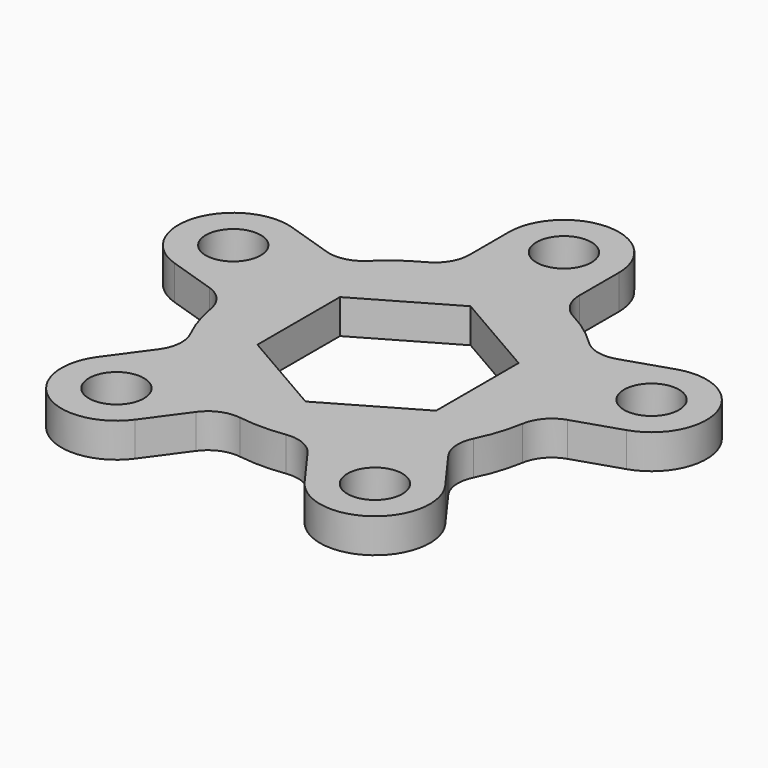
from build123d import *

# Parameters (mm, degrees)
F0_R     = 4
F1_DEPTH = 5


with BuildPart() as f1:
    # F0 (on Top) → F1 (new body)
    with BuildSketch(Plane.XY):
        with BuildLine():
            Line((8, 24.799194), (8, 32))
            ThreePointArc((8, 32), (0, 40), (-8, 32))
            Line((-8, 32), (-8, 24.799194))
            ThreePointArc((-8, 24.799194), (-8.721733, 22.211448), (-10.678571, 20.370766))
            ThreePointArc((-10.678571, 20.370766), (-13.519061, 18.607391), (-16.07389, 16.450838))
            ThreePointArc((-16.07389, 16.450838), (-18.429178, 15.158575), (-21.113299, 15.271824))
            Line((-21.113299, 15.271824), (-27.961673, 17.496996))
            ThreePointArc((-27.961673, 17.496996), (-38.042261, 12.36068), (-32.905944, 2.280092))
            Line((-32.905944, 2.280092), (-26.057571, 0.05492))
            ThreePointArc((-26.057571, 0.05492), (-23.819506, -1.431146), (-22.67361, -3.861012))
            ThreePointArc((-22.67361, -3.861012), (-21.8743, -7.107391), (-20.612782, -10.203589))
            ThreePointArc((-20.612782, -10.203589), (-20.111591, -12.842933), (-21.048736, -15.360687))
            Line((-21.048736, -15.360687), (-25.281264, -21.186262))
            ThreePointArc((-25.281264, -21.186262), (-23.51141, -32.36068), (-12.336992, -30.590826))
            Line((-12.336992, -30.590826), (-8.104464, -24.765251))
            ThreePointArc((-8.104464, -24.765251), (-5.999531, -23.095944), (-3.33449, -22.757003))
            ThreePointArc((-3.33449, -22.757003), (0, -23), (3.33449, -22.757003))
            ThreePointArc((3.33449, -22.757003), (5.999531, -23.095944), (8.104464, -24.765251))
            Line((8.104464, -24.765251), (12.336992, -30.590826))
            ThreePointArc((12.336992, -30.590826), (23.51141, -32.36068), (25.281264, -21.186262))
            Line((25.281264, -21.186262), (21.048736, -15.360687))
            ThreePointArc((21.048736, -15.360687), (20.111591, -12.842933), (20.612782, -10.203589))
            ThreePointArc((20.612782, -10.203589), (21.8743, -7.107391), (22.67361, -3.861012))
            ThreePointArc((22.67361, -3.861012), (23.819506, -1.431146), (26.057571, 0.05492))
            Line((26.057571, 0.05492), (32.905944, 2.280092))
            ThreePointArc((32.905944, 2.280092), (38.042261, 12.36068), (27.961673, 17.496996))
            Line((27.961673, 17.496996), (21.113299, 15.271824))
            ThreePointArc((21.113299, 15.271824), (18.429178, 15.158575), (16.07389, 16.450838))
            ThreePointArc((16.07389, 16.450838), (13.519061, 18.607391), (10.678571, 20.370766))
            ThreePointArc((10.678571, 20.370766), (8.721733, 22.211448), (8, 24.799194))
        make_face()
        with Locations((-18.809128, -25.888544)):
            Circle(F0_R, mode=Mode.SUBTRACT)
        with Locations((18.809128, -25.888544)):
            Circle(F0_R, mode=Mode.SUBTRACT)
        Polygon((0, -15.011107), (-13, -7.505553), (-13, 7.505553), (0, 15.011107), (13, 7.505553), (13, -7.505553), align=None, mode=Mode.SUBTRACT)
        with Locations((-30.433809, 9.888544)):
            Circle(F0_R, mode=Mode.SUBTRACT)
        with Locations((30.433809, 9.888544)):
            Circle(F0_R, mode=Mode.SUBTRACT)
        with Locations((0, 32)):
            Circle(F0_R, mode=Mode.SUBTRACT)
    extrude(amount=F1_DEPTH)


solid = f1.part
